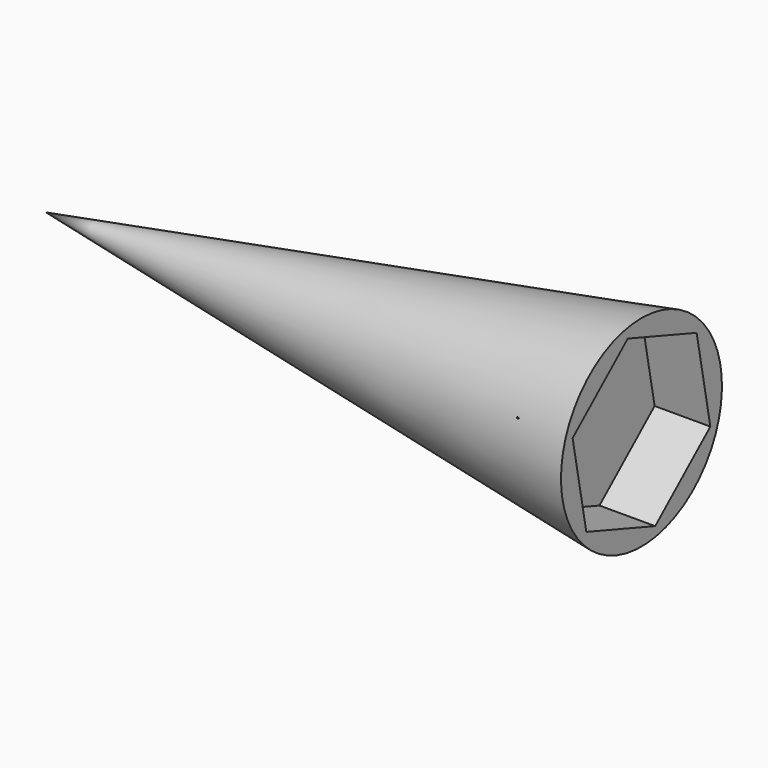
from build123d import *

# Parameters (mm, degrees)
F3_DEPTH = 10


with BuildPart() as f1:
    # F0 (on Front) → F1 (revolve)
    with BuildSketch(Plane.XZ):
        Polygon((58.914479, 18.059211), (-47.960527, 0), (58.914479, 0), align=None)
    revolve(axis=Axis((5.476976, 0, 0), (1, 0, 0)))

    # F2 (on face) → F3 (cut)
    with BuildSketch(Plane.YZ.offset(58.914479)):
        Polygon((15.452811, -5.369053), (12.376141, 10.698), (-3.076669, 16.067053), (-15.452811, 5.369053), (-12.376141, -10.698), (3.076669, -16.067053), align=None)
    extrude(amount=-F3_DEPTH, mode=Mode.SUBTRACT)


solid = f1.part
